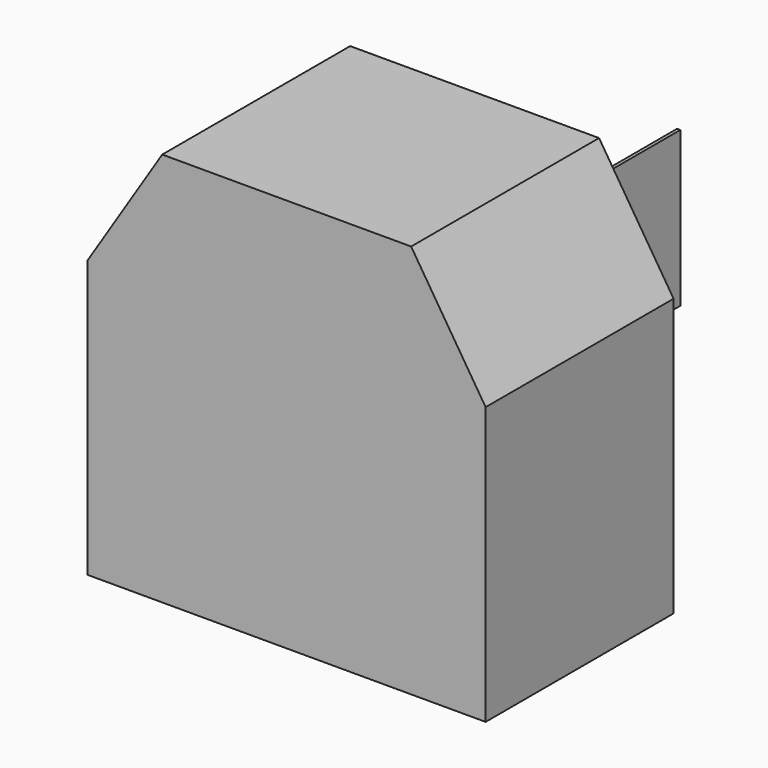
from build123d import *

# Parameters (mm, degrees)
F0_W     = 109.428194
F0_H     = 76.2
F1_DEPTH = 39.19995
F3_DEPTH = 25.4
F4_W     = 30.319728
F4_H     = 42.576271
F5_DEPTH = 0.888


with BuildPart() as f1:
    # F0 (on Front) → F1 (new body)
    with BuildSketch(Plane.XZ):
        Polygon((-34.227538, 70.328853), (-54.714097, 38.1), (54.714097, 38.1), (34.227538, 70.328853), align=None)
        Rectangle(F0_W, F0_H)
    extrude(amount=F1_DEPTH)

    # F1_face (on face) → F3 (join)
    with BuildSketch(Plane(origin=(0, 0, 13.552836), x_dir=(1, 0, 0), z_dir=(0, 1, 0))):
        Polygon((-54.714097, -24.547164), (-34.227538, -56.776017), (34.227538, -56.776017), (54.714097, -24.547164), (54.714097, 51.652836), (-54.714097, 51.652836), align=None)
    extrude(amount=F3_DEPTH)


with BuildPart() as f5:
    # F4 (on Right) → F5 (new body)
    with BuildSketch(Plane.YZ):
        with Locations((80.941256, 11.123361)):
            Rectangle(F4_W, F4_H)
    extrude(amount=-F5_DEPTH)


solid = Compound([f1.part, f5.part])
